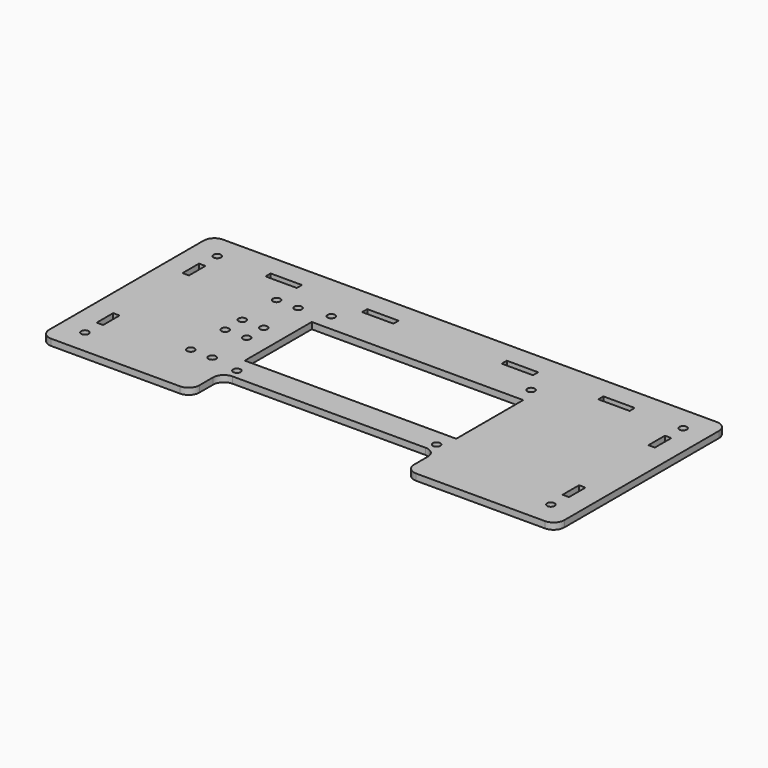
from build123d import *

# Parameters (mm, degrees)
SKETCH_R         = 1.75
PAD004_DEPTH     = 1.5
SKETCH001001_R   = 1.75
SKETCH001001_W   = 98.5
SKETCH001001_H   = 39
PAD005_DEPTH     = 1.5
SKETCH003002_R   = 1.75
PAD001_DEPTH     = 1.5
SKETCH003004_R   = 1.75
PAD002_DEPTH     = 1.5
SKETCH003003_W   = 3
SKETCH003003_H   = 9.6
SKETCH003003_W_2 = 14.6
SKETCH003003_H_2 = 3
PAD_DEPTH        = 1.5
FILLET_R         = 5


with BuildPart() as pad004:
    # Sketch → Pad004 (new body, symmetric)
    with BuildSketch(Plane.XY):
        with Locations((-108.5, 38.5)):
            Circle(SKETCH_R)
        with Locations((-108.5, -38.5)):
            Circle(SKETCH_R)
        with Locations((108.5, 38.5)):
            Circle(SKETCH_R)
        with Locations((108.5, -38.5)):
            Circle(SKETCH_R)
    extrude(amount=PAD004_DEPTH, both=True)


with BuildPart() as pad005:
    # Sketch001001 → Pad005 (new body, symmetric)
    with BuildSketch(Plane.XY):
        with Locations((46.5, 27.5)):
            Circle(SKETCH001001_R)
        with Locations((-46.5, 27.5)):
            Circle(SKETCH001001_R)
        with Locations((-46.5, -27.5)):
            Circle(SKETCH001001_R)
        with Locations((46.5, -27.5)):
            Circle(SKETCH001001_R)
        Rectangle(SKETCH001001_W, SKETCH001001_H)
    extrude(amount=PAD005_DEPTH, both=True)


with BuildPart() as pad001:
    # Sketch003002 → Pad001 (new body, symmetric)
    with BuildSketch(Plane.XY):
        with Locations((-70, -25)):
            Circle(SKETCH003002_R)
        with Locations((-70, -5)):
            Circle(SKETCH003002_R)
        with Locations((-60, -5)):
            Circle(SKETCH003002_R)
        with Locations((-60, -25)):
            Circle(SKETCH003002_R)
    extrude(amount=PAD001_DEPTH, both=True)


with BuildPart() as pad002:
    # Sketch003004 → Pad002 (new body, symmetric)
    with BuildSketch(Plane.XY):
        with Locations((-70, 5)):
            Circle(SKETCH003004_R)
        with Locations((-70, 25)):
            Circle(SKETCH003004_R)
        with Locations((-60, 25)):
            Circle(SKETCH003004_R)
        with Locations((-60, 5)):
            Circle(SKETCH003004_R)
    extrude(amount=PAD002_DEPTH, both=True)


with BuildPart() as fillet_body:
    # Sketch003003 → Pad (new body, symmetric)
    with BuildSketch(Plane.XY):
        Polygon((-120, 50), (120, 50), (120, -50), (50, -50), (50, -32), (-50, -32), (-50, -50), (-120, -50), align=None)
        with Locations((108.5, -25)):
            Rectangle(SKETCH003003_W, SKETCH003003_H, mode=Mode.SUBTRACT)
        with Locations((108.5, 25)):
            Rectangle(SKETCH003003_W, SKETCH003003_H, mode=Mode.SUBTRACT)
        with Locations((-108.5, 25)):
            Rectangle(SKETCH003003_W, SKETCH003003_H, mode=Mode.SUBTRACT)
        with Locations((-108.5, -25)):
            Rectangle(SKETCH003003_W, SKETCH003003_H, mode=Mode.SUBTRACT)
        with Locations((-77.5, 38.5)):
            Rectangle(SKETCH003003_W_2, SKETCH003003_H_2, mode=Mode.SUBTRACT)
        with Locations((-32.5, 38.5)):
            Rectangle(SKETCH003003_W_2, SKETCH003003_H_2, mode=Mode.SUBTRACT)
        with Locations((32.5, 38.5)):
            Rectangle(SKETCH003003_W_2, SKETCH003003_H_2, mode=Mode.SUBTRACT)
        with Locations((77.5, 38.5)):
            Rectangle(SKETCH003003_W_2, SKETCH003003_H_2, mode=Mode.SUBTRACT)
    extrude(amount=PAD_DEPTH, both=True)

    # Cut: cut Pad002
    add(pad002.part, mode=Mode.SUBTRACT)

    # Cut001: cut Pad001
    add(pad001.part, mode=Mode.SUBTRACT)

    # Cut002: cut Pad005
    add(pad005.part, mode=Mode.SUBTRACT)

    # Cut003: cut Pad004
    add(pad004.part, mode=Mode.SUBTRACT)

    # Fillet
    fillet_edges = [fillet_body.edges().sort_by_distance(p)[0] for p in [
        (50, -50, 0),
        (120, -50, 0),
        (50, -32, 0),
        (120, 50, 0),
        (-50, -32, 0),
        (-120, 50, 0),
        (-50, -50, 0),
        (-120, -50, 0),
    ]]
    fillet(fillet_edges, radius=FILLET_R)


solid = fillet_body.part
